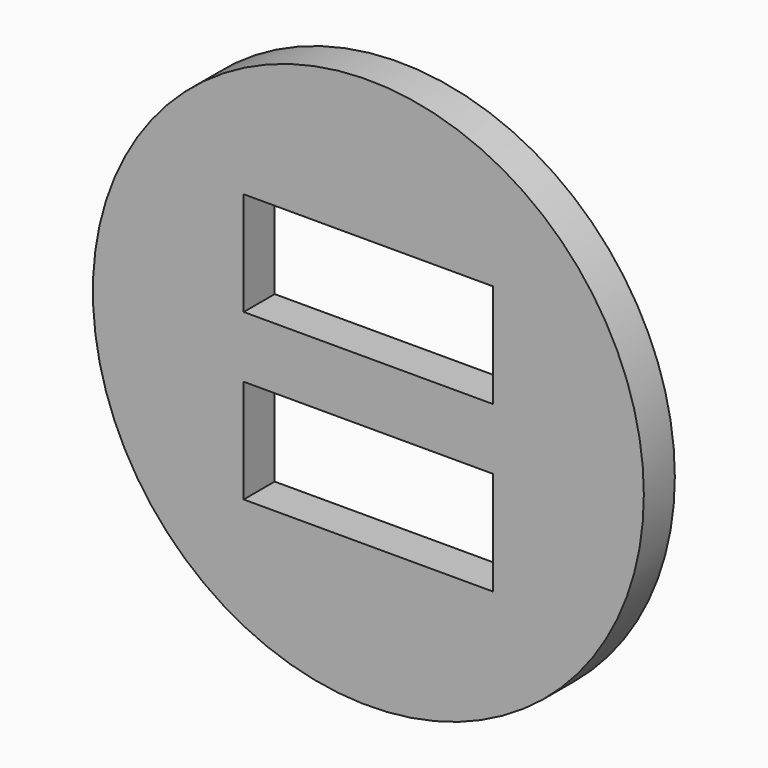
from build123d import *

# Parameters (mm, degrees)
F0_R     = 14.22
F0_W     = 12.87
F0_H     = 5.35
F1_DEPTH = 2


with BuildPart() as f1:
    # F0 (on Front) → F1 (new body)
    with BuildSketch(Plane.XZ):
        Circle(F0_R)
        with Locations((0, -4.26)):
            Rectangle(F0_W, F0_H, mode=Mode.SUBTRACT)
        with Locations((0, 4.26)):
            Rectangle(F0_W, F0_H, mode=Mode.SUBTRACT)
    extrude(amount=F1_DEPTH)


solid = f1.part
